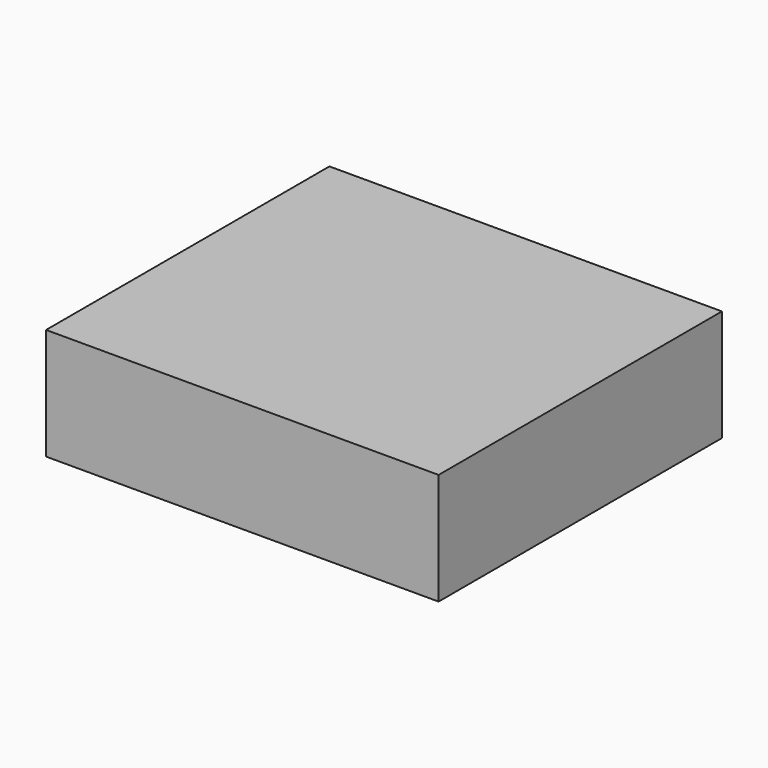
from build123d import *

# Parameters (mm, degrees)
F1_W     = 89.394268
F1_H     = 80.654025
F2_DEPTH = 25.4


with BuildPart() as f2:
    # F1 (on face) → F2 (new body)
    with BuildSketch(Plane.XY):
        with Locations((0.991022, -0.480316)):
            Rectangle(F1_W, F1_H)
    extrude(amount=F2_DEPTH)


solid = f2.part
